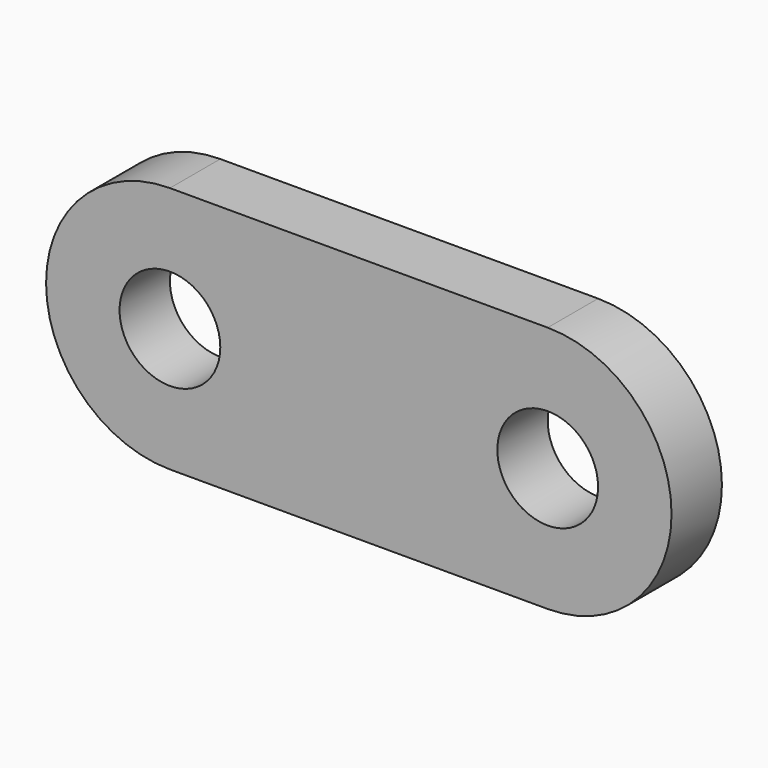
from build123d import *

# Parameters (mm, degrees)
F0_R     = 4
F1_DEPTH = 2.5


with BuildPart() as f1:
    # F0 (on Front) → F1 (new body, symmetric)
    with BuildSketch(Plane.XZ):
        with BuildLine():
            Line((0, 9.835), (-15, 9.835))
            ThreePointArc((-15, 9.835), (-24.835, 0), (-15, -9.835))
            Line((-15, -9.835), (0, -9.835))
            Line((0, -9.835), (15, -9.835))
            ThreePointArc((15, -9.835), (24.835, 0), (15, 9.835))
            Line((15, 9.835), (0, 9.835))
        make_face()
        with Locations((-15, 0)):
            Circle(F0_R, mode=Mode.SUBTRACT)
        with Locations((15, 0)):
            Circle(F0_R, mode=Mode.SUBTRACT)
    extrude(amount=F1_DEPTH, both=True)


solid = f1.part
